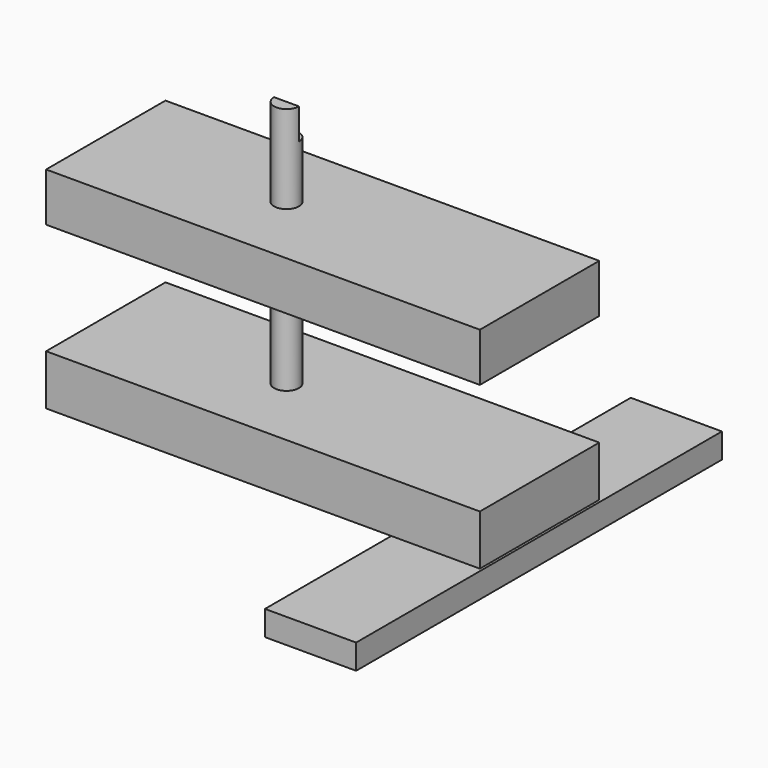
from build123d import *

# Parameters (mm, degrees)
F0_R     = 6.35
F1_DEPTH = 152.4
F2_W     = 12.7
F2_H     = 18.046826
F3_DEPTH = 25.4
F4_DEPTH = 25.4
F5_W     = 221.533217
F5_H     = 24.816573
F5_H_2   = 25.724487
F6_DEPTH = 38.1
F7_DEPTH = 38.1
F9_DEPTH = 12.7


with BuildPart() as f1:
    # F0 (on Top) → F1 (new body)
    with BuildSketch(Plane.XY):
        Circle(F0_R)
    extrude(amount=F1_DEPTH)

    # F2 (on Right) → F3 (cut)
    with BuildSketch(Plane.YZ):
        with Locations((6.35, 145.580664)):
            Rectangle(F2_W, F2_H)
    extrude(amount=-F3_DEPTH, mode=Mode.SUBTRACT)

    # F2 (on Right) → F4 (cut)
    with BuildSketch(Plane.YZ):
        with Locations((6.35, 145.580664)):
            Rectangle(F2_W, F2_H)
    extrude(amount=F4_DEPTH, mode=Mode.SUBTRACT)

    # F5 (on Front) → F6 (join)
    with BuildSketch(Plane.XZ):
        with Locations((18.461104, 95.02928)):
            Rectangle(F5_W, F5_H)
        with Locations((18.461104, 12.862243)):
            Rectangle(F5_W, F5_H_2)
    extrude(amount=F6_DEPTH)

    # F5 (on Front) → F7 (join)
    with BuildSketch(Plane.XZ):
        with Locations((18.461104, 95.02928)):
            Rectangle(F5_W, F5_H)
        with Locations((18.461104, 12.862243)):
            Rectangle(F5_W, F5_H_2)
    extrude(amount=-F7_DEPTH)


with BuildPart() as f9:
    # F8 (on face) → F9 (new body)
    with BuildSketch(Plane(origin=(0, 0, 0), x_dir=(1, 0, 0), z_dir=(0, 0, -1))):
        Polygon((83.989941, -114.758618), (130.548141, -114.758618), (130.548141, 118.743582), (83.989941, 118.743582), (83.989941, 38.1), (129.227713, 38.1), (129.227713, -38.1), (83.989941, -38.1), align=None)
    extrude(amount=F9_DEPTH)


solid = Compound([f1.part, f9.part])
